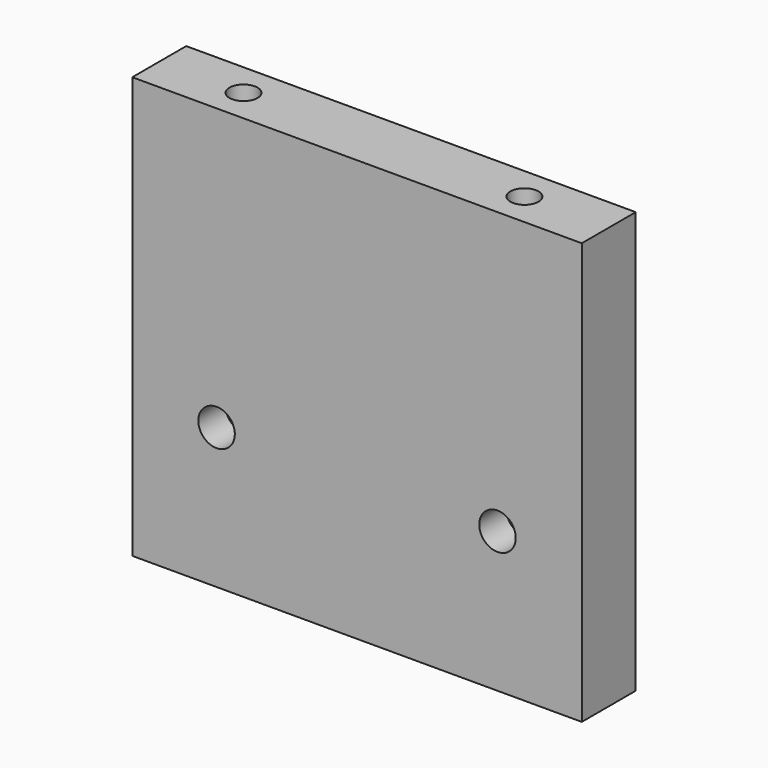
from build123d import *

# Parameters (mm, degrees)
F0_W     = 80
F0_H     = 75
F0_R     = 3.25
F1_DEPTH = 12
F2_R     = 5.5
F3_DEPTH = 6
F4_R     = 2.5
F5_DEPTH = 20
F6_R     = 2.5
F7_DEPTH = 20
F8_R     = 2.5
F9_DEPTH = 20


with BuildPart() as f1:
    # F0 (on Front) → F1 (new body)
    with BuildSketch(Plane.XZ):
        with Locations((40, 37.5)):
            Rectangle(F0_W, F0_H)
        with Locations((15, 25)):
            Circle(F0_R, mode=Mode.SUBTRACT)
        with Locations((65, 25)):
            Circle(F0_R, mode=Mode.SUBTRACT)
    extrude(amount=F1_DEPTH)

    # F2 (on face) → F3 (cut)
    with BuildSketch(Plane(origin=(0, 0, 0), x_dir=(-1, 0, 0), z_dir=(0, 1, 0))):
        with Locations((-15, 25)):
            Circle(F2_R)
        with Locations((-65, 25)):
            Circle(F2_R)
    extrude(amount=-F3_DEPTH, mode=Mode.SUBTRACT)

    # F4 (on face) → F5 (cut)
    with BuildSketch(Plane(origin=(0, 0, 0), x_dir=(1, 0, 0), z_dir=(0, 0, -1))):
        with Locations((15, 6)):
            Circle(F4_R)
        with Locations((65, 6)):
            Circle(F4_R)
    extrude(amount=-F5_DEPTH, mode=Mode.SUBTRACT)

    # F6 (on face) → F7 (cut)
    with BuildSketch(Plane.XY.offset(75)):
        with Locations((15, -6)):
            Circle(F6_R)
        with Locations((65, -6)):
            Circle(F6_R)
    extrude(amount=-F7_DEPTH, mode=Mode.SUBTRACT)

    # F8 (on face) → F9 (cut)
    with BuildSketch(Plane(origin=(0, 0, 0), x_dir=(0, -1, 0), z_dir=(-1, 0, 0))):
        with Locations((6, 62.5)):
            Circle(F8_R)
        with Locations((6, 12.5)):
            Circle(F8_R)
    extrude(amount=-F9_DEPTH, mode=Mode.SUBTRACT)


solid = f1.part
